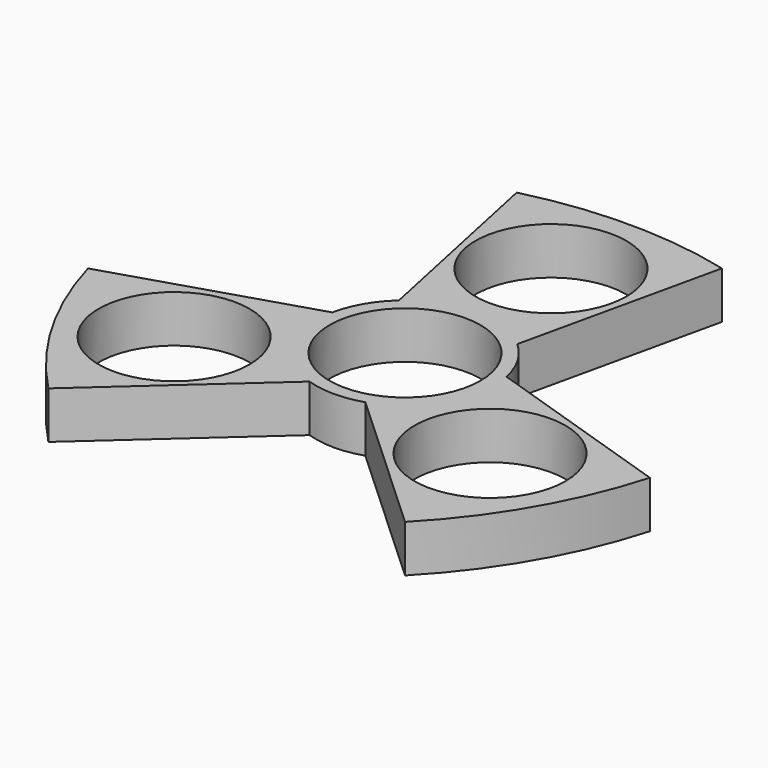
from build123d import *

# Parameters (mm, degrees)
F0_R     = 11.2
F1_DEPTH = 7


with BuildPart() as f1:
    # F0 (on Top) → F1 (new body)
    with BuildSketch(Plane.XY):
        with BuildLine():
            ThreePointArc((4.141857, -12.533356), (10.698423, -7.731995), (13.2, 0))
            ThreePointArc((13.2, 0), (13.131104, 1.346893), (12.925133, 2.679725))
            ThreePointArc((12.925133, 2.679725), (11.431535, 6.6), (8.783277, 9.853631))
            ThreePointArc((8.783277, 9.853631), (0, 13.2), (-8.783277, 9.853631))
            ThreePointArc((-8.783277, 9.853631), (-11.431535, 6.6), (-12.925133, 2.679725))
            ThreePointArc((-12.925133, 2.679725), (-11.431535, -6.6), (-4.141857, -12.533356))
            ThreePointArc((-4.141857, -12.533356), (0, -13.2), (4.141857, -12.533356))
        make_face()
        Circle(F0_R, mode=Mode.SUBTRACT)
        with BuildLine():
            ThreePointArc((12.925133, 2.679725), (13.131104, 1.346893), (13.2, 0))
            ThreePointArc((13.2, 0), (10.698423, -7.731995), (4.141857, -12.533356))
            Line((4.141857, -12.533356), (26.512645, -33.127057))
            ThreePointArc((26.512645, -33.127057), (35.773086, -20.883133), (41.746416, -6.741393))
            Line((41.746416, -6.741393), (12.925133, 2.679725))
        make_face()
        with Locations((23.451635, -13.539808)):
            Circle(F0_R, mode=Mode.SUBTRACT)
        with BuildLine():
            ThreePointArc((-8.783277, 9.853631), (0, 13.2), (8.783277, 9.853631))
            Line((8.783277, 9.853631), (15.432551, 39.524153))
            ThreePointArc((15.432551, 39.524153), (0.19878, 41.421968), (-15.03499, 39.524153))
            Line((-15.03499, 39.524153), (-8.783277, 9.853631))
        make_face()
        with Locations((0, 27.079616)):
            Circle(F0_R, mode=Mode.SUBTRACT)
        with BuildLine():
            Line((-26.711425, -32.78276), (-4.141857, -12.533356))
            ThreePointArc((-4.141857, -12.533356), (-11.431535, -6.6), (-12.925133, 2.679725))
            Line((-12.925133, 2.679725), (-41.945196, -6.397096))
            ThreePointArc((-41.945196, -6.397096), (-35.971866, -20.538835), (-26.711425, -32.78276))
        make_face()
        with Locations((-23.451635, -13.539808)):
            Circle(F0_R, mode=Mode.SUBTRACT)
    extrude(amount=F1_DEPTH)


solid = f1.part
